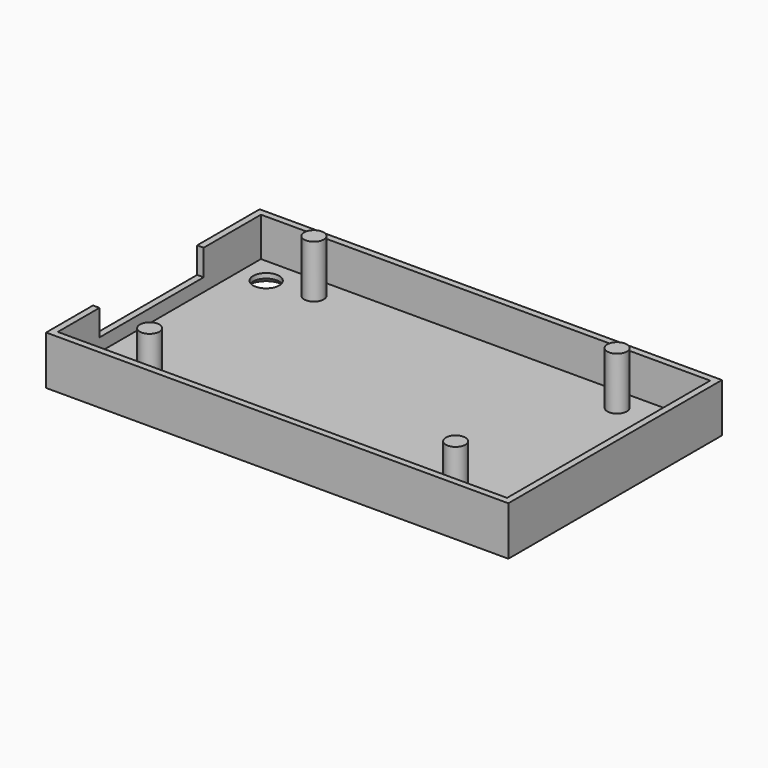
from build123d import *

# Parameters (mm, degrees)
F0_R           = 2
F0_R_2         = 1.5
F0_W           = 1
F0_H           = 20
F1_DEPTH       = 1.5
F2_DEPTH       = 7.5
F3_DEPTH       = 9.6
F4_DEPTH       = 3.5
F5_D           = 3
F5_CSINK_D     = 5.5
F5_CSINK_ANGLE = 90


with BuildPart() as f1:
    # F0 (on Top) → F1 (new body)
    with BuildSketch(Plane.XY):
        Polygon((56.2425711751, 68.4110085815), (-12.7574288249, 68.4110085815), (-12.7574288249, 57.4110085815), (-12.7574288249, 37.4110085815), (-12.7574288249, 29.4110085815), (56.2425711751, 29.4110085815), align=None)
        with Locations((-8.7574288249, 33.4110085815)):
            Circle(F0_R, mode=Mode.SUBTRACT)
        with Locations((-2.2574288249, 33.9110085815)):
            Circle(F0_R_2, mode=Mode.SUBTRACT)
        with Locations((52.2425711751, 33.4110085815)):
            Circle(F0_R, mode=Mode.SUBTRACT)
        with Locations((44.7425711751, 33.9110085815)):
            Circle(F0_R_2, mode=Mode.SUBTRACT)
        with Locations((-8.7574288249, 64.4110085815)):
            Circle(F0_R, mode=Mode.SUBTRACT)
        with Locations((-1.8220887287, 64.9110085815)):
            Circle(F0_R_2, mode=Mode.SUBTRACT)
        with Locations((44.7425711751, 64.9110085815)):
            Circle(F0_R_2, mode=Mode.SUBTRACT)
        with Locations((52.2425711751, 64.4110085815)):
            Circle(F0_R, mode=Mode.SUBTRACT)
        Polygon((-12.7574288249, 57.4110085815), (-12.7574288249, 68.4110085815), (56.2425711751, 68.4110085815), (56.2425711751, 29.4110085815), (-12.7574288249, 29.4110085815), (-12.7574288249, 37.4110085815), (-13.7574288249, 37.4110085815), (-13.7574288249, 28.4110085815), (57.2425711751, 28.4110085815), (57.2425711751, 69.4110085815), (-13.7574288249, 69.4110085815), (-13.7574288249, 57.4110085815), align=None)
        with Locations((-2.2574288249, 33.9110085815)):
            Circle(F0_R_2)
        with Locations((44.7425711751, 33.9110085815)):
            Circle(F0_R_2)
        with Locations((44.7425711751, 64.9110085815)):
            Circle(F0_R_2)
        with Locations((-1.8220887287, 64.9110085815)):
            Circle(F0_R_2)
        with Locations((-13.2574288249, 47.4110085815)):
            Rectangle(F0_W, F0_H)
    extrude(amount=F1_DEPTH)

    # F0 (on Top) → F2 (join)
    with BuildSketch(Plane.XY):
        Polygon((-12.7574288249, 57.4110085815), (-12.7574288249, 68.4110085815), (56.2425711751, 68.4110085815), (56.2425711751, 29.4110085815), (-12.7574288249, 29.4110085815), (-12.7574288249, 37.4110085815), (-13.7574288249, 37.4110085815), (-13.7574288249, 28.4110085815), (57.2425711751, 28.4110085815), (57.2425711751, 69.4110085815), (-13.7574288249, 69.4110085815), (-13.7574288249, 57.4110085815), align=None)
    extrude(amount=F2_DEPTH)

    # F0 (on Top) → F3 (join)
    with BuildSketch(Plane.XY):
        with Locations((-1.8220887287, 64.9110085815)):
            Circle(F0_R_2)
        with Locations((-2.2574288249, 33.9110085815)):
            Circle(F0_R_2)
        with Locations((44.7425711751, 33.9110085815)):
            Circle(F0_R_2)
        with Locations((44.7425711751, 64.9110085815)):
            Circle(F0_R_2)
    extrude(amount=F3_DEPTH)

    # F0 (on Top) → F4 (join)
    with BuildSketch(Plane.XY):
        with Locations((-13.2574288249, 47.4110085815)):
            Rectangle(F0_W, F0_H)
    extrude(amount=F4_DEPTH)

    # F5 (through all)
    with Locations(Plane(origin=(0, 0, 0), x_dir=(1, 0, 0), z_dir=(0, 0, -1))):
        with Locations((52.2425711751, -64.4110085815), (52.2425711751, -33.4110085815), (-8.7574288249, -33.4110085815), (-8.7574288249, -64.4110085815)):
            CounterSinkHole(F5_D / 2, F5_CSINK_D / 2, counter_sink_angle=F5_CSINK_ANGLE)


solid = f1.part
